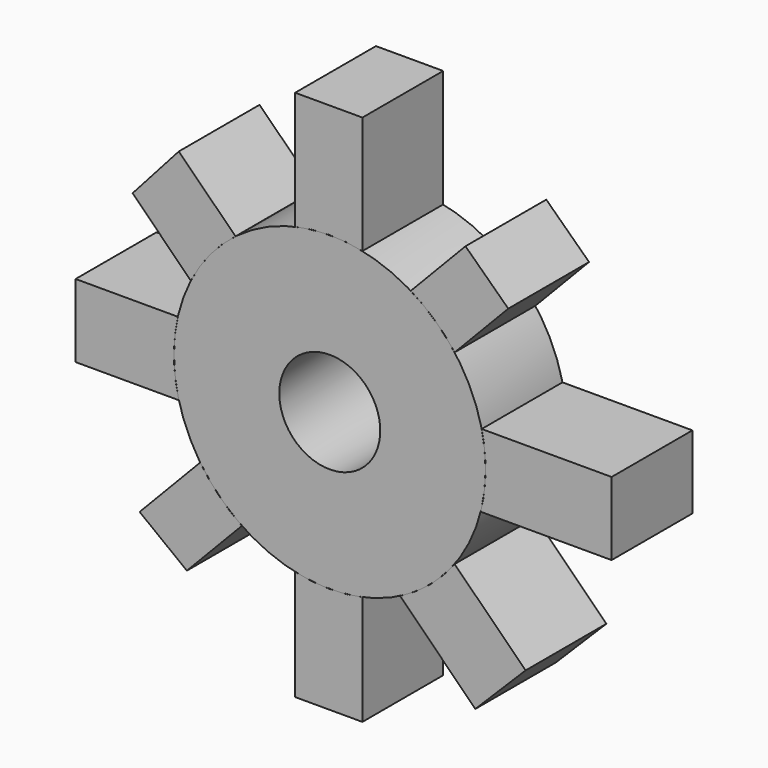
from build123d import *

# Parameters (mm, degrees)
F0_R     = 7.7142389087
F5_DEPTH = 5
F7_D     = 5


with BuildPart() as f5:
    # F0 (on Front) → F5 (new body)
    with BuildSketch(Plane.XZ):
        Circle(F0_R)
    extrude(amount=F5_DEPTH)

    # F7 (through all)
    with Locations(Plane.XZ.offset(5)):
        with Locations((0, 0)):
            Hole(F7_D / 2)


with BuildPart() as f5b:
    # F4 (on face) → F5, piece 2 (new body)
    with BuildSketch(Plane.XZ):
        with BuildLine():
            Line((-6.4151013281, -4.2843852407), (-9.4147128984, -7.4127353728))
            Line((-9.4147128984, -7.4127353728), (-7.0748222597, -9.2134878601))
            Line((-7.0748222597, -9.2134878601), (-4.349461512, -6.3711589602))
            ThreePointArc((-4.349461512, -6.3711589602), (-5.4824820495, -5.4269579431), (-6.4151013281, -4.2843852407))
        make_face()
    extrude(amount=F5_DEPTH)


with BuildPart() as f5c:
    # F4 (on face) → F5, piece 3 (new body)
    with BuildSketch(Plane.XZ):
        with BuildLine():
            Line((6.7200716585, 9.4145284966), (4.0111821729, 6.5893777791))
            ThreePointArc((4.0111821729, 6.5893777791), (5.191915124, 5.7055673938), (6.1828679139, 4.6132013071))
            Line((6.1828679139, 4.6132013071), (8.838734437, 7.3830534008))
            Line((8.838734437, 7.3830534008), (6.7200716585, 9.4145284966))
        make_face()
    extrude(amount=F5_DEPTH)


with BuildPart() as f5d:
    # F2 (on face) → F5, piece 4 (new body)
    with BuildSketch(Plane.XZ):
        with BuildLine():
            Line((-7.5224605391, 1.7094061477), (-12.5843221322, 1.7094061477))
            Line((-12.5843221322, 1.7094061477), (-12.5843221322, -1.9140576478))
            Line((-12.5843221322, -1.9140576478), (-7.4730091169, -1.9140576478))
            ThreePointArc((-7.4730091169, -1.9140576478), (-7.7135205983, -0.1052706983), (-7.5224605391, 1.7094061477))
        make_face()
    extrude(amount=F5_DEPTH)


with BuildPart() as f5e:
    # F2 (on face) → F5, piece 5 (new body)
    with BuildSketch(Plane.XZ):
        with BuildLine():
            Line((13.9551013708, 1.7094061477), (7.5224605391, 1.7094061477))
            ThreePointArc((7.5224605391, 1.7094061477), (7.6661443934, 0.8600651604), (7.7142389087, 0))
            ThreePointArc((7.7142389087, 0), (7.6536938675, -0.9645994624), (7.4730091169, -1.9140576478))
            Line((7.4730091169, -1.9140576478), (13.9551013708, -1.9140576478))
            Line((13.9551013708, -1.9140576478), (13.9551013708, 1.7094061477))
        make_face()
    extrude(amount=F5_DEPTH)


with BuildPart() as f5f:
    # F3 (on face) → F5, piece 6 (new body)
    with BuildSketch(Plane.XZ):
        with BuildLine():
            Line((-7.475768216, 8.9297927916), (-9.7609516233, 6.3676163554))
            Line((-9.7609516233, 6.3676163554), (-6.8808801981, 3.4875449302))
            ThreePointArc((-6.8808801981, 3.4875449302), (-5.9242567565, 4.9409173059), (-4.6662492185, 6.1429309105))
            Line((-4.6662492185, 6.1429309105), (-7.475768216, 8.9297927916))
        make_face()
    extrude(amount=F5_DEPTH)


with BuildPart() as f5g:
    # F3 (on face) → F5, piece 7 (new body)
    with BuildSketch(Plane.XZ):
        with BuildLine():
            ThreePointArc((6.1805118227, -4.6163573898), (4.9648611492, -5.9042049176), (3.4875449302, -6.8808801981))
            Line((3.4875449302, -6.8808801981), (7.2048073635, -10.5981426314))
            Line((7.2048073635, -10.5981426314), (9.6977343783, -8.1052156165))
            Line((9.6977343783, -8.1052156165), (6.1805118227, -4.6163573898))
        make_face()
    extrude(amount=F5_DEPTH)


with BuildPart() as f5h:
    # F1 (on face) → F5, piece 8 (new body)
    with BuildSketch(Plane.XZ):
        with BuildLine():
            Line((1.6157386126, 13.3632495999), (-1.7139305128, 13.3632495999))
            Line((-1.7139305128, 13.3632495999), (-1.7139305128, 7.52143099))
            ThreePointArc((-1.7139305128, 7.52143099), (-0.0502808867, 7.7140750432), (1.6157386126, 7.5431340089))
            Line((1.6157386126, 7.5431340089), (1.6157386126, 13.3632495999))
        make_face()
    extrude(amount=F5_DEPTH)


with BuildPart() as f5i:
    # F1 (on face) → F5, piece 9 (new body)
    with BuildSketch(Plane.XZ):
        with BuildLine():
            ThreePointArc((1.6157386126, -7.5431340089), (-0.0502808867, -7.7140750432), (-1.7139305128, -7.52143099))
            Line((-1.7139305128, -7.52143099), (-1.7139305128, -12.980312109))
            Line((-1.7139305128, -12.980312109), (1.6157386126, -12.980312109))
            Line((1.6157386126, -12.980312109), (1.6157386126, -7.5431340089))
        make_face()
    extrude(amount=F5_DEPTH)


solid = Compound([f5.part, f5b.part, f5c.part, f5d.part, f5e.part, f5f.part, f5g.part, f5h.part, f5i.part])
